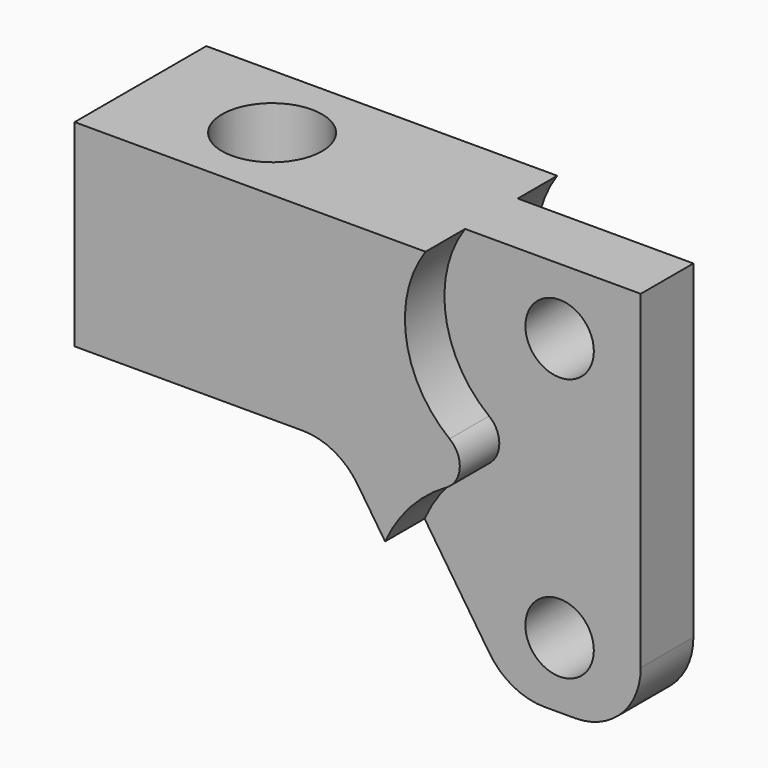
from build123d import *

# Parameters (mm, degrees)
F1_DEPTH      = 7.9375
F1_DEPTH_BACK = 7.9375
F2_R          = 6.35
F3_R          = 3.302
F4_DEPTH      = 25.4
F6_DEPTH      = 4.7625
F7_R          = 2.54
F9_DEPTH      = 4.7625
F10_R         = 4.826
F11_DEPTH     = 38.101


with BuildPart() as f1:
    # F0 (on Front) → F1 (new body, two sides)
    with BuildSketch(Plane.XZ) as f1_sk:
        Polygon((0, 19.05), (0, 0), (25.4, 0), (38.1, -19.05), (50.8, -19.05), (50.8, 19.05), align=None)
    extrude(amount=F1_DEPTH)
    extrude(f1_sk.sketch, amount=-F1_DEPTH_BACK)

    # F2
    f2_edges = [f1.edges().sort_by_distance(p)[0] for p in [
        (25.4, 0, 0),
        (38.1, 0, -19.05),
        (50.8, 0, -19.05),
    ]]
    fillet(f2_edges, radius=F2_R)

    # F3 (on face) → F4 (cut)
    with BuildSketch(Plane.XZ.offset(7.9375)):
        with Locations((42.974208, -12.7)):
            Circle(F3_R)
        with Locations((42.974208, 12.7)):
            Circle(F3_R)
    extrude(amount=-F4_DEPTH, mode=Mode.SUBTRACT)

    # F5 (on face) → F6 (cut)
    with BuildSketch(Plane.XZ.offset(7.9375)):
        with BuildLine():
            Line((42.974208, -12.7), (42.974208, 1.5875))
            ThreePointArc((42.974208, 1.5875), (32.87142, -22.802788), (57.261708, -12.7))
            Line((57.261708, -12.7), (42.974208, -12.7))
        make_face()
        with BuildLine():
            ThreePointArc((54.086708, 12.7), (35.116484, 20.557724), (42.974208, 1.5875))
            Line((42.974208, 1.5875), (42.974208, 12.7))
            Line((42.974208, 12.7), (54.086708, 12.7))
        make_face()
        Polygon((42.974208, 12.7), (42.974208, 1.5875), (42.974208, -12.7), (57.261708, -12.7), (61.707854, -12.7), (61.707854, 12.7), (54.086708, 12.7), align=None)
    extrude(amount=-F6_DEPTH, mode=Mode.SUBTRACT)

    # F7
    f7_edges = [f1.edges().sort_by_distance(p)[0] for p in [
        (42.974208, -5.55625, 1.5875),
    ]]
    fillet(f7_edges, radius=F7_R)

    # F8 (on face) → F9 (cut)
    with BuildSketch(Plane(origin=(0, 7.9375, 0), x_dir=(-1, 0, 0), z_dir=(0, 1, 0))):
        with BuildLine():
            Line((-50.8, 19.05), (-50.8, -12.7))
            ThreePointArc((-50.8, -12.7), (-48.940128, -17.190128), (-44.45, -19.05))
            Line((-44.45, -19.05), (-41.498417, -19.05))
            ThreePointArc((-41.498417, -19.05), (-38.502119, -18.298634), (-36.214897, -16.222346))
            Line((-36.214897, -16.222346), (-29.950297, -6.825446))
            ThreePointArc((-29.950297, -6.825446), (-32.398052, -3.093879), (-35.877663, -0.299528))
            ThreePointArc((-35.877663, -0.299528), (-37.149918, 1.728535), (-36.17106, 3.913372))
            ThreePointArc((-36.17106, 3.913372), (-31.989583, 11.019032), (-33.854715, 19.05))
            Line((-33.854715, 19.05), (-50.8, 19.05))
        make_face()
    extrude(amount=-F9_DEPTH, mode=Mode.SUBTRACT)

    # F10 (on face) → F11 (cut, through all)
    with BuildSketch(Plane.XY.offset(19.05)):
        with Locations((12.7, 0)):
            Circle(F10_R)
    extrude(amount=-F11_DEPTH, mode=Mode.SUBTRACT)


solid = f1.part
